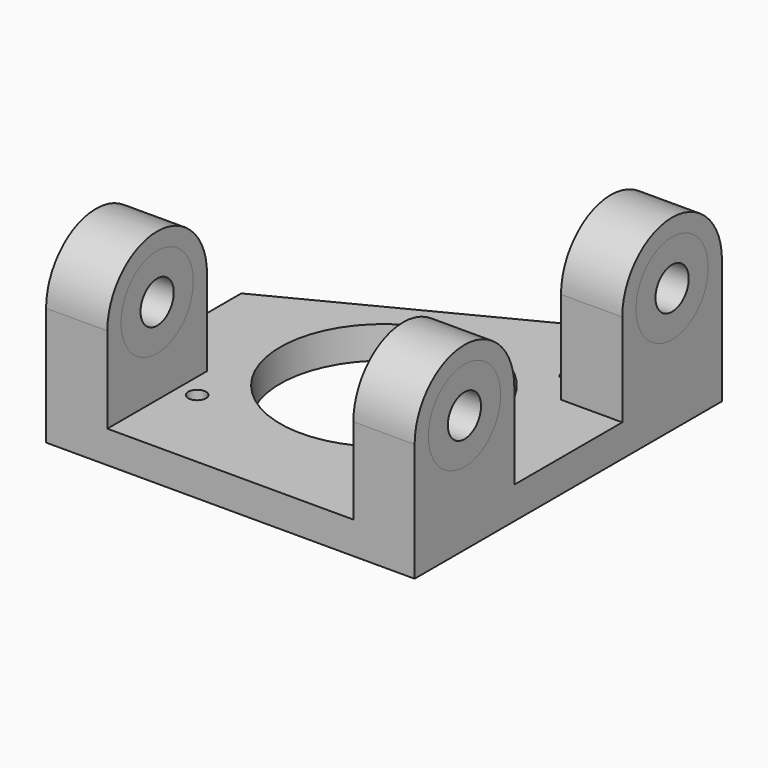
from build123d import *

# Parameters (mm, degrees)
F0_R     = 20
F1_DEPTH = 6.2
F2_R     = 8.7
F3_DEPTH = 11.8
F2_R_2   = 4
F4_DEPTH = 11.8
F5_R     = 8.7
F6_DEPTH = 11.8
F5_R_2   = 4
F7_DEPTH = 11.8
F9_D     = 3.42


with BuildPart() as f1:
    # F0 (on Top) → F1 (new body)
    with BuildSketch(Plane.XY):
        Polygon((35.5, 37), (17, 37), (-35.5, 10), (-35.5, -37), (35.5, -37), align=None)
        Circle(F0_R, mode=Mode.SUBTRACT)
    extrude(amount=-F1_DEPTH)

    # F2 (on face) → F3 (join)
    with BuildSketch(Plane.YZ.offset(35.5)):
        with BuildLine():
            Line((-37, 16.592205), (-37, 0))
            Line((-37, 0), (-13, 0))
            Line((-13, 0), (-13, 16.592205))
            ThreePointArc((-13, 16.592205), (-25, 28.592205), (-37, 16.592205))
        make_face()
        with Locations((-25, 16.592205)):
            Circle(F2_R, mode=Mode.SUBTRACT)
        with BuildLine():
            Line((13, 17.866805), (13, 0))
            Line((13, 0), (37, 0))
            Line((37, 0), (37, 17.866805))
            ThreePointArc((37, 17.866805), (25, 29.866805), (13, 17.866805))
        make_face()
        with Locations((25, 17.866805)):
            Circle(F2_R, mode=Mode.SUBTRACT)
    extrude(amount=-F3_DEPTH)

    # F5 (on face) → F6 (join)
    with BuildSketch(Plane(origin=(-35.5, 0, 0), x_dir=(0, -1, 0), z_dir=(-1, 0, 0))):
        with BuildLine():
            ThreePointArc((37, 16.592205), (25, 28.592205), (13, 16.592205))
            Line((13, 16.592205), (13, 0))
            Line((13, 0), (37, 0))
            Line((37, 0), (37, 16.592205))
        make_face()
        with Locations((25, 16.592205)):
            Circle(F5_R, mode=Mode.SUBTRACT)
    extrude(amount=-F6_DEPTH)

    # F9 (through all)
    with Locations(Plane(origin=(0, 0, -6.2), x_dir=(1, 0, 0), z_dir=(0, 0, -1))):
        with Locations((-20, 20), (20, 20), (20, -20)):
            Hole(F9_D / 2)


with BuildPart() as f4:
    # F2 (on face) → F4 (new body, through all)
    with BuildSketch(Plane.YZ.offset(35.5)):
        with Locations((-25, 16.592205)):
            Circle(F2_R)
        with Locations((-25, 16.592205)):
            Circle(F2_R_2, mode=Mode.SUBTRACT)
        with Locations((25, 17.866805)):
            Circle(F2_R)
        with Locations((25, 17.866805)):
            Circle(F2_R_2, mode=Mode.SUBTRACT)
    extrude(amount=-F4_DEPTH)


with BuildPart() as f7:
    # F5 (on face) → F7 (new body, through all)
    with BuildSketch(Plane(origin=(-35.5, 0, 0), x_dir=(0, -1, 0), z_dir=(-1, 0, 0))):
        with Locations((25, 16.592205)):
            Circle(F5_R)
        with Locations((25, 16.592205)):
            Circle(F5_R_2, mode=Mode.SUBTRACT)
    extrude(amount=-F7_DEPTH)


solid = Compound([f1.part, f4.part, f7.part])
